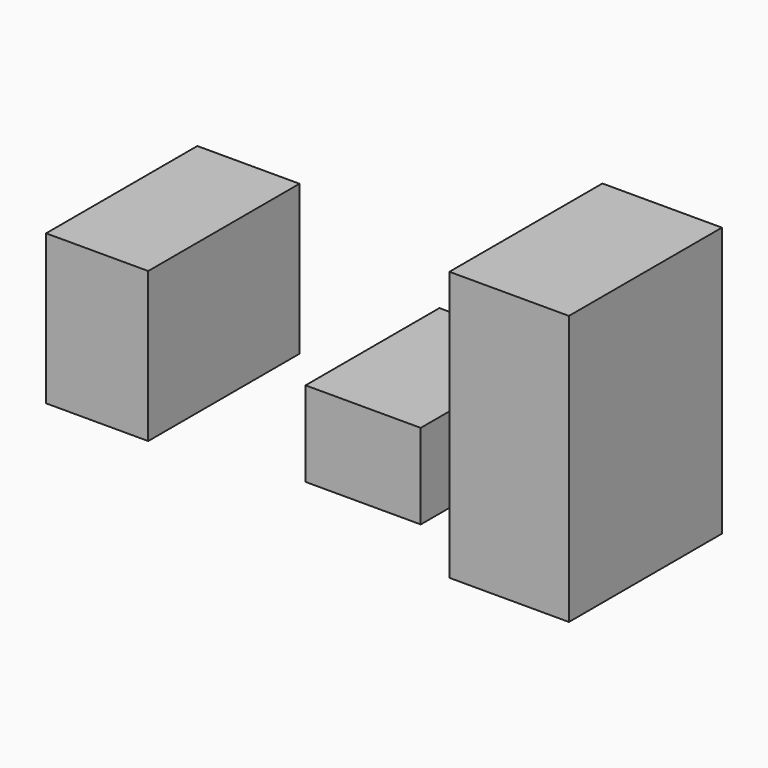
from build123d import *

# Parameters (mm, degrees)
F0_W     = 17.056452
F0_H     = 31.572584
F1_DEPTH = 25
F0_W_2   = 19.23387
F0_H_2   = 27.943548
F2_DEPTH = 14.2
F0_W_3   = 19.959673
F0_H_3   = 31.935486
F3_DEPTH = 45


with BuildPart() as f1:
    # F0 (on Top) → F1 (new body)
    with BuildSketch(Plane.XY):
        with Locations((-25.312501, 3.538307)):
            Rectangle(F0_W, F0_H)
    extrude(amount=F1_DEPTH)


with BuildPart() as f2:
    # F0 (on Top) → F2 (new body)
    with BuildSketch(Plane.XY):
        with Locations((16.058468, 5.534274)):
            Rectangle(F0_W_2, F0_H_2)
    extrude(amount=F2_DEPTH)


with BuildPart() as f3:
    # F0 (on Top) → F3 (new body)
    with BuildSketch(Plane.XY):
        with Locations((47.993955, -1.905242)):
            Rectangle(F0_W_3, F0_H_3)
    extrude(amount=F3_DEPTH)


solid = Compound([f1.part, f2.part, f3.part])
